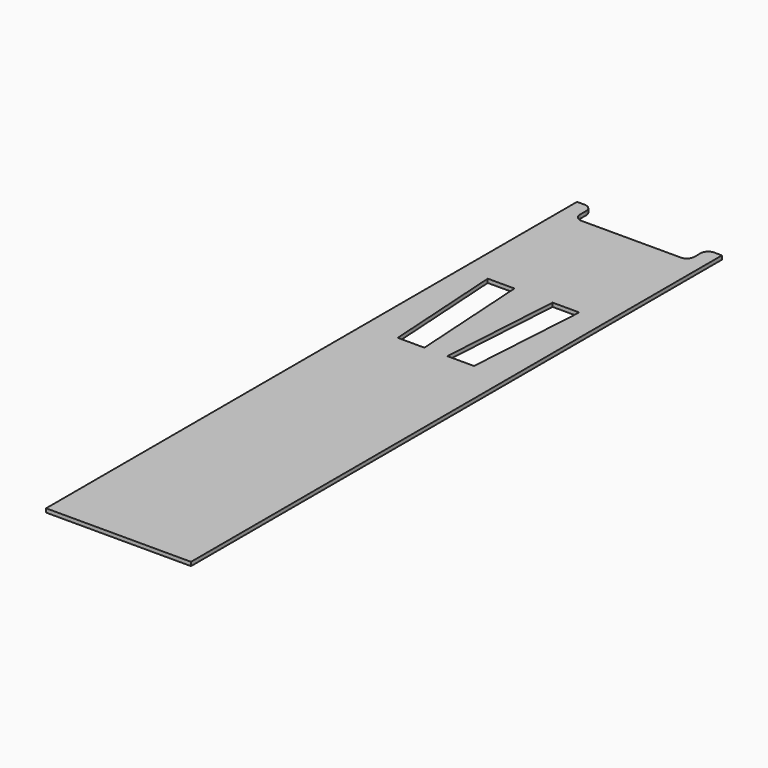
from build123d import *

# Parameters (mm, degrees)
F1_DEPTH = 3.175


with BuildPart() as f1:
    # F0 (on Top) → F1 (new body)
    with BuildSketch(Plane.XY):
        with BuildLine():
            Line((-60.325, -170.62252), (0, -170.62252))
            Line((0, -170.62252), (0, 362.77748))
            Line((0, 362.77748), (-41.275, 362.77748))
            ThreePointArc((-41.275, 362.77748), (-45.765128, 364.637352), (-47.625, 369.12748))
            Line((-47.625, 369.12748), (-47.625, 375.47748))
            ThreePointArc((-47.625, 375.47748), (-49.484872, 379.967608), (-53.975, 381.82748))
            Line((-53.975, 381.82748), (-60.325, 381.82748))
            Line((-60.325, 381.82748), (-60.325, -170.62252))
        make_face()
        Polygon((-15.875, 261.17748), (-9.525, 159.57748), (-31.75, 159.57748), (-38.1, 261.17748), align=None, mode=Mode.SUBTRACT)
        with BuildLine():
            Line((0, 362.77748), (0, -170.62252))
            Line((0, -170.62252), (60.325, -170.62252))
            Line((60.325, -170.62252), (60.325, 381.82748))
            Line((60.325, 381.82748), (53.975, 381.82748))
            ThreePointArc((53.975, 381.82748), (49.484872, 379.967608), (47.625, 375.47748))
            Line((47.625, 375.47748), (47.625, 369.12748))
            ThreePointArc((47.625, 369.12748), (45.765128, 364.637352), (41.275, 362.77748))
            Line((41.275, 362.77748), (0, 362.77748))
        make_face()
        Polygon((31.75, 159.57748), (9.525, 159.57748), (15.875, 261.17748), (38.1, 261.17748), align=None, mode=Mode.SUBTRACT)
    extrude(amount=F1_DEPTH)


solid = f1.part
